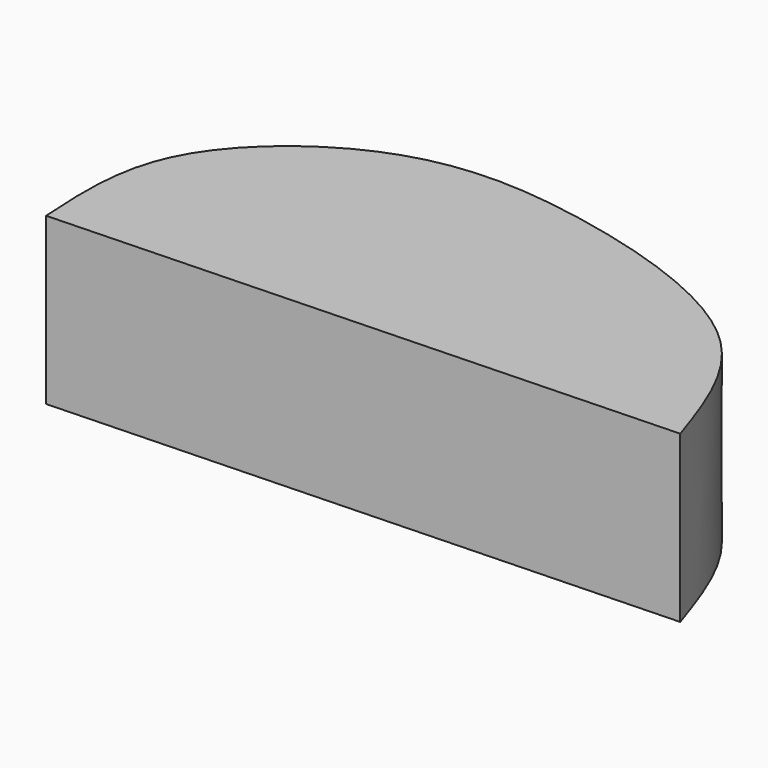
from build123d import *

# Parameters (mm, degrees)
F1_DEPTH = 63.5


with BuildPart() as f1:
    # F0 (on Top) → F1 (new body)
    with BuildSketch(Plane.XY):
        with BuildLine():
            add(Edge.make_bspline(
                [(-125.7385164499, -8.246300742), (-126.8441411064, 10.3296107153), (-129.1666529083, 49.3507860656), (-69.7666391126, 96.9172132705), (-0.4551173125, 93.945685696), (89.0548741463, 65.0720763522), (103.8175216482, 20.5286447457), (110.6211543083, 0)],
                knots=[0, 0, 0, 0, 0.1789547036, 0.3759181822, 0.5787231691, 0.8058469658, 1, 1, 1, 1], degree=3))
            Line((-125.7385164499, -8.246300742), (110.6211543083, 0))
        make_face()
    extrude(amount=F1_DEPTH)


solid = f1.part
